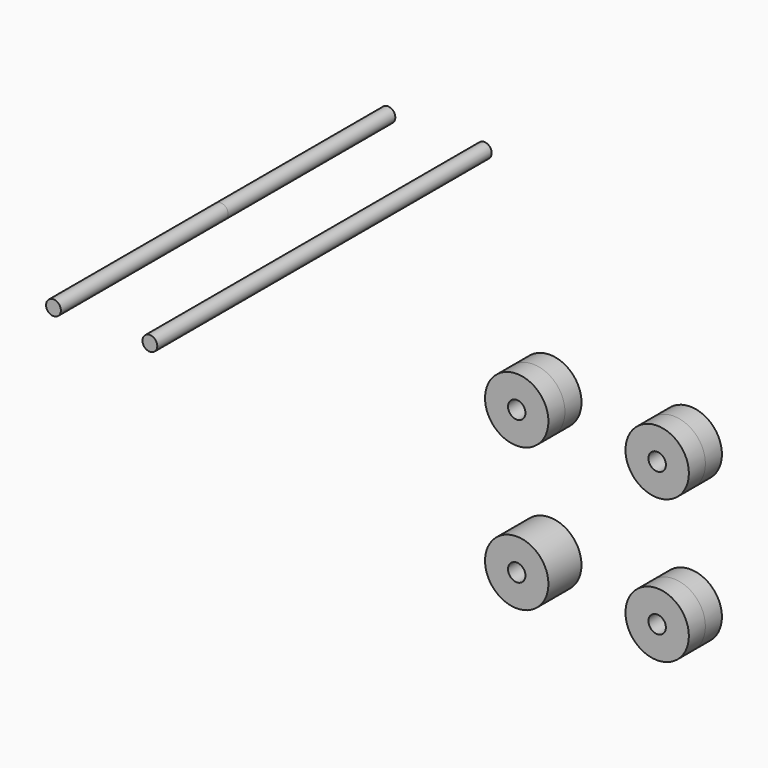
from build123d import *

# Parameters (mm, degrees)
F0_R     = 1.54988
F0_R_2   = 1.549882
F1_DEPTH = 43.688
F2_R     = 6.625785
F2_R_2   = 1.820241
F3_DEPTH = 4.318


with BuildPart() as f1:
    # F0 (on Front) → F1 (new body, symmetric)
    with BuildSketch(Plane.XZ):
        with Locations((-48.639175, 28.492769)):
            Circle(F0_R)
        with Locations((-28.492769, 28.492769)):
            Circle(F0_R_2)
    extrude(amount=F1_DEPTH, both=True)


with BuildPart() as f3:
    # F2 (on Front) → F3 (new body, symmetric)
    with BuildSketch(Plane.XZ):
        with Locations((46.048921, 14.965899)):
            Circle(F2_R)
        with Locations((46.048921, 14.965899)):
            Circle(F2_R_2, mode=Mode.SUBTRACT)
        with Locations((46.048921, -14.965899)):
            Circle(F2_R)
        with Locations((46.048921, -14.965899)):
            Circle(F2_R_2, mode=Mode.SUBTRACT)
        with Locations((16.692732, 14.965899)):
            Circle(F2_R)
        with Locations((16.692732, 14.965899)):
            Circle(F2_R_2, mode=Mode.SUBTRACT)
        with Locations((16.692732, -14.965899)):
            Circle(F2_R)
        with Locations((16.692732, -14.965899)):
            Circle(F2_R_2, mode=Mode.SUBTRACT)
    extrude(amount=F3_DEPTH, both=True)


solid = Compound([f1.part, f3.part])
